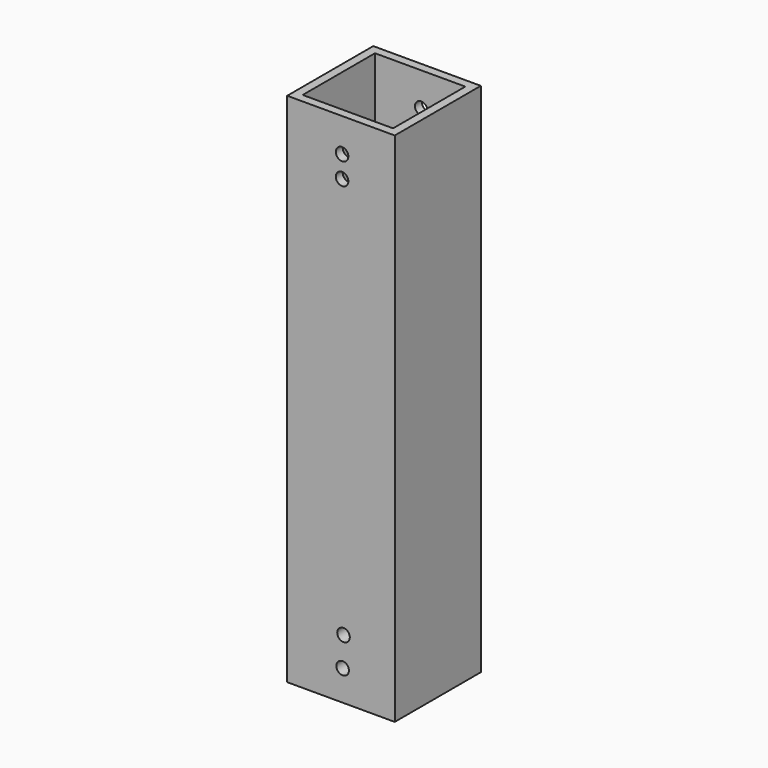
from build123d import *

# Parameters (mm, degrees)
F0_W     = 31.75
F0_H     = 31.75
F1_DEPTH = 152.4
F3_D     = 3.7084
F5_D     = 3.7084
F6_T     = -2.54
F9_D     = 3.7084


with BuildPart() as f1:
    # F0 (on Top) → F1 (new body)
    with BuildSketch(Plane.XY):
        with Locations((-27.94562, -26.788075)):
            Rectangle(F0_W, F0_H)
    extrude(amount=F1_DEPTH)

    # F3 (through all)
    with Locations(Plane.XZ.offset(42.663075)):
        with Locations((-27.452439, 8.945552)):
            Hole(F3_D / 2)

    # F5 (through all)
    with Locations(Plane(origin=(0, -10.913075, 0), x_dir=(-1, 0, 0), z_dir=(0, 1, 0))):
        with Locations((27.196182, 17.657645)):
            Hole(F5_D / 2)

    # F6
    f6_openings = [f1.faces().sort_by_distance(p)[0] for p in [
        (-27.94562, -26.788075, 152.4),
    ]]
    offset(amount=F6_T, openings=f6_openings)

    # F9 (through all)
    with Locations(Plane(origin=(0, -10.913075, 0), x_dir=(-1, 0, 0), z_dir=(0, 1, 0))):
        with Locations((27.616672, 142.499596), (27.616672, 136.036113)):
            Hole(F9_D / 2)


solid = f1.part
